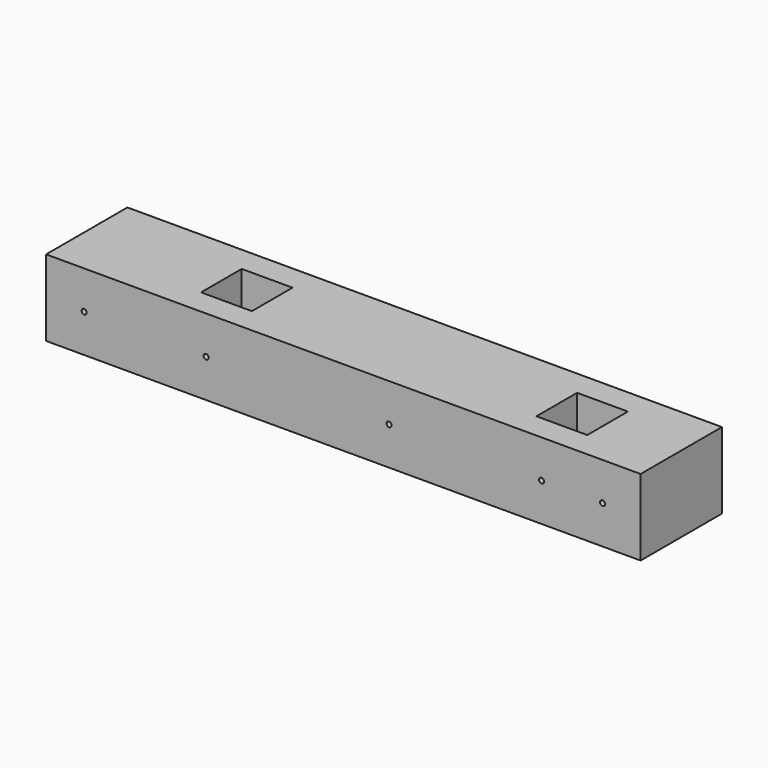
from build123d import *

# Parameters (mm, degrees)
F0_W     = 117
F0_H     = 15
F0_R     = 0.5
F1_DEPTH = 20
F2_W     = 10
F2_H     = 10
F3_DEPTH = 37


with BuildPart() as f1:
    # F0 (on Front) → F1 (new body)
    with BuildSketch(Plane.XZ):
        with Locations((67, 12)):
            Rectangle(F0_W, F0_H)
        with Locations((16, 12)):
            Circle(F0_R, mode=Mode.SUBTRACT)
        with Locations((40, 12)):
            Circle(F0_R, mode=Mode.SUBTRACT)
        with Locations((76, 12)):
            Circle(F0_R, mode=Mode.SUBTRACT)
        with Locations((106, 12)):
            Circle(F0_R, mode=Mode.SUBTRACT)
        with Locations((118, 12)):
            Circle(F0_R, mode=Mode.SUBTRACT)
    extrude(amount=F1_DEPTH)

    # F2 (on face) → F3 (cut)
    with BuildSketch(Plane.XY.offset(19.5)):
        with Locations((40, -10)):
            Rectangle(F2_W, F2_H)
        with Locations((106, -10)):
            Rectangle(F2_W, F2_H)
    extrude(amount=-F3_DEPTH, mode=Mode.SUBTRACT)


solid = f1.part
